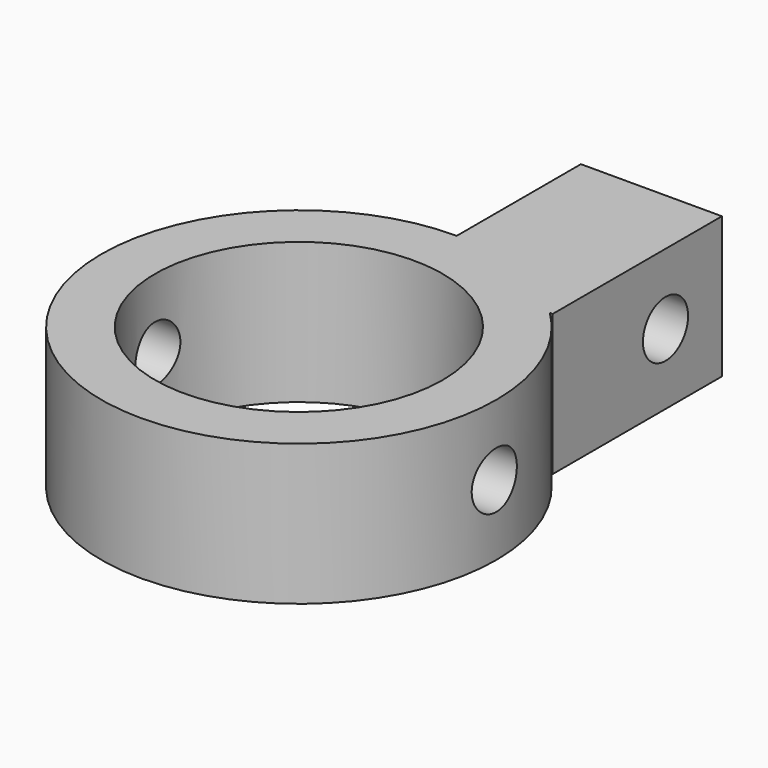
from build123d import *

# Parameters (mm, degrees)
CYLINDER003_R           = 2
CYLINDER003_DEPTH       = 10
CYLINDER003_PITCH_ANGLE = -90
CYLINDER004_R           = 2
CYLINDER004_DEPTH       = 30
CYLINDER004_PITCH_ANGLE = -90
CYLINDER001_R           = 10.2
CYLINDER001_DEPTH       = 10
BOX_W                   = 10
BOX_H                   = 15
BOX_DEPTH               = 10
CYLINDER_R              = 14
CYLINDER_DEPTH          = 10


with BuildPart() as cylinder003:
    # Cylinder003 → Cylinder003 (new body)
    with BuildSketch(Plane.XY):
        Circle(CYLINDER003_R)
    extrude(amount=CYLINDER003_DEPTH)


with BuildPart() as cylinder003_1:
    # Cylinder003 pitch: moved
    add(cylinder003.part.rotate(Axis((0, 0, 0), (0, 1, 0)), CYLINDER003_PITCH_ANGLE))


with BuildPart() as cylinder003_2:
    # Cylinder003 placement: moved
    add(cylinder003_1.part.moved(Location((10, 20, 0))))


with BuildPart() as cylinder004:
    # Cylinder004 → Cylinder004 (new body)
    with BuildSketch(Plane.XY):
        Circle(CYLINDER004_R)
    extrude(amount=CYLINDER004_DEPTH)


with BuildPart() as cylinder004_1:
    # Cylinder004 pitch: moved
    add(cylinder004.part.rotate(Axis((0, 0, 0), (0, 1, 0)), CYLINDER004_PITCH_ANGLE))


with BuildPart() as cylinder004_2:
    # Cylinder004 placement: moved
    add(cylinder004_1.part.moved(Location((15, 0, 0))))


with BuildPart() as negative_fusion:
    # Cylinder001 → Cylinder001 (new body)
    with BuildSketch(Plane.XY.offset(-5)):
        Circle(CYLINDER001_R)
    extrude(amount=CYLINDER001_DEPTH)

    # Fusion: union Cylinder003, Cylinder004
    add(cylinder003_2.part)
    add(cylinder004_2.part)


with BuildPart() as cube:
    # Box → Box (new body)
    with BuildSketch(Plane(origin=(0, 10, -5), x_dir=(1, 0, 0), z_dir=(0, 0, 1))):
        with Locations((5, 7.5)):
            Rectangle(BOX_W, BOX_H)
    extrude(amount=BOX_DEPTH)


with BuildPart() as cut:
    # Cylinder → Cylinder (new body)
    with BuildSketch(Plane.XY.offset(-5)):
        Circle(CYLINDER_R)
    extrude(amount=CYLINDER_DEPTH)

    # Fusion001: union Cube
    add(cube.part)

    # Cut: cut Negative Fusion
    add(negative_fusion.part, mode=Mode.SUBTRACT)


solid = cut.part
